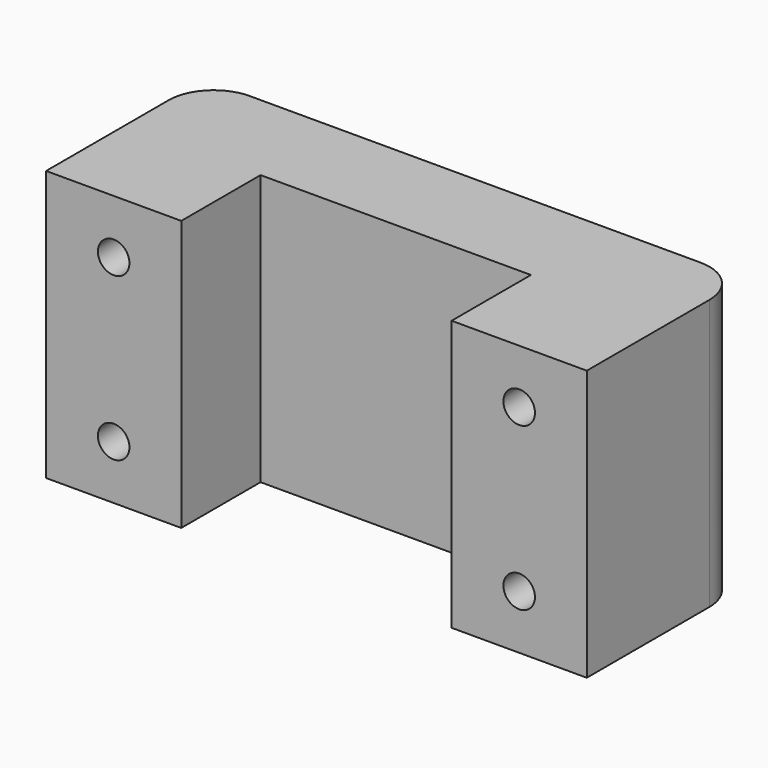
from build123d import *

# Parameters (mm, degrees)
F1_DEPTH = 30
F2_R     = 1.75
F3_R     = 1.75
F4_DEPTH = 22.001
F5_R     = 1.75
F6_DEPTH = 10


with BuildPart() as f1:
    # F0 (on Top) → F1 (new body)
    with BuildSketch(Plane.XY):
        with BuildLine():
            Line((25, 22), (-25, 22))
            ThreePointArc((-25, 22), (-28.5355339059, 20.5355339059), (-30, 17))
            Line((-30, 17), (-30, 0))
            Line((-30, 0), (-15, 0))
            Line((-15, 0), (-15, 11))
            Line((-15, 11), (15, 11))
            Line((15, 11), (15, 0))
            Line((15, 0), (30, 0))
            Line((30, 0), (30, 17))
            ThreePointArc((30, 17), (28.5355339059, 20.5355339059), (25, 22))
        make_face()
    extrude(amount=F1_DEPTH)

    # F2 (on face) + F3 (on face) → F4 (cut, through all)
    with BuildSketch(Plane.XZ):
        with Locations((-22.5, 24)):
            Circle(F2_R)
        with Locations((-22.5, 6)):
            Circle(F2_R)
    with BuildSketch(Plane.XZ):
        with Locations((22.5, 6)):
            Circle(F3_R)
        with Locations((22.5, 24)):
            Circle(F3_R)
    extrude(amount=-F4_DEPTH, mode=Mode.SUBTRACT)

    # F5 (on face) → F6 (cut)
    with BuildSketch(Plane(origin=(0, 22, 0), x_dir=(-1, 0, 0), z_dir=(0, 1, 0))):
        with BuildLine():
            ThreePointArc((25, 20.8775010008), (26.1055512755, 22.2679491924), (26.5, 24))
            ThreePointArc((26.5, 24), (26.1055512755, 25.7320508076), (25, 27.1224989992))
            Line((25, 27.1224989992), (25, 20.8775010008))
        make_face()
        with BuildLine():
            Line((25, 20.8775010008), (25, 27.1224989992))
            ThreePointArc((25, 27.1224989992), (18.5, 24), (25, 20.8775010008))
        make_face()
        with Locations((22.5, 24)):
            Circle(F5_R, mode=Mode.SUBTRACT)
        with BuildLine():
            Line((25, 2.8775010008), (25, 9.1224989992))
            ThreePointArc((25, 9.1224989992), (18.5, 6), (25, 2.8775010008))
        make_face()
        with Locations((22.5, 6)):
            Circle(F5_R, mode=Mode.SUBTRACT)
        with BuildLine():
            ThreePointArc((26.5, 6), (26.1055512755, 7.7320508076), (25, 9.1224989992))
            Line((25, 9.1224989992), (25, 2.8775010008))
            ThreePointArc((25, 2.8775010008), (26.1055512755, 4.2679491924), (26.5, 6))
        make_face()
        with BuildLine():
            ThreePointArc((-18.5, 6), (-20.7679491924, 9.6055512755), (-25, 9.1224989992))
            Line((-25, 9.1224989992), (-25, 2.8775010008))
            ThreePointArc((-25, 2.8775010008), (-20.7679491924, 2.3944487245), (-18.5, 6))
        make_face()
        with Locations((-22.5, 6)):
            Circle(F5_R, mode=Mode.SUBTRACT)
        with BuildLine():
            Line((-25, 2.8775010008), (-25, 9.1224989992))
            ThreePointArc((-25, 9.1224989992), (-26.5, 6), (-25, 2.8775010008))
        make_face()
        with BuildLine():
            ThreePointArc((-18.5, 24), (-20.7679491924, 27.6055512755), (-25, 27.1224989992))
            Line((-25, 27.1224989992), (-25, 20.8775010008))
            ThreePointArc((-25, 20.8775010008), (-20.7679491924, 20.3944487245), (-18.5, 24))
        make_face()
        with Locations((-22.5, 24)):
            Circle(F5_R, mode=Mode.SUBTRACT)
        with BuildLine():
            Line((-25, 20.8775010008), (-25, 27.1224989992))
            ThreePointArc((-25, 27.1224989992), (-26.5, 24), (-25, 20.8775010008))
        make_face()
    extrude(amount=-F6_DEPTH, mode=Mode.SUBTRACT)


solid = f1.part
